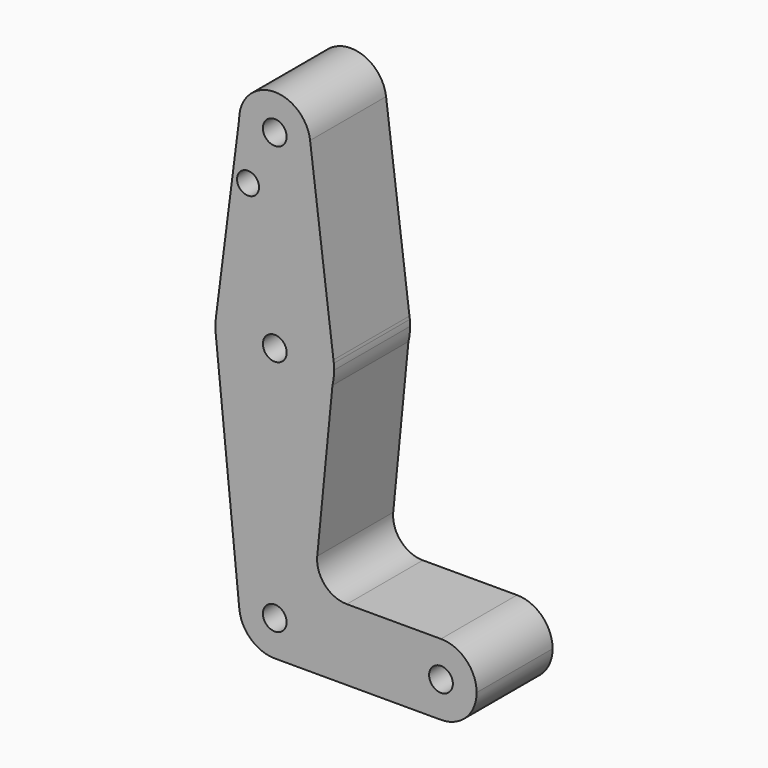
from build123d import *

# Parameters (mm, degrees)
F0_R     = 3.175
F0_R_2   = 2.938042
F1_DEPTH = 25.4


with BuildPart() as f1:
    # F0 (on Front) → F1 (new body)
    with BuildSketch(Plane.XZ):
        with BuildLine():
            ThreePointArc((0, -9.525), (6.735192, -6.735192), (9.525, 0))
            ThreePointArc((9.525, 0), (-0.476848, 9.513056), (-9.477255, -0.9525))
            ThreePointArc((-9.477255, -0.9525), (-6.389564, -7.063929), (0, -9.525))
        make_face()
        Circle(F0_R, mode=Mode.SUBTRACT)
        with BuildLine():
            ThreePointArc((-9.477255, -0.9525), (-0.476848, 9.513056), (9.525, 0))
            ThreePointArc((9.525, 0), (6.735192, -6.735192), (0, -9.525))
            Line((0, -9.525), (44.244344, -9.52278))
            ThreePointArc((44.244344, -9.52278), (34.925555, 0.102834), (44.45, 9.525))
            Line((44.45, 9.525), (19.271431, 9.525254))
            ThreePointArc((19.271431, 9.525254), (13.382074, 12.135023), (11.359216, 18.25086))
            Line((11.359216, 18.25086), (15.426409, 59.752799))
            ThreePointArc((15.426409, 59.752799), (-1.0955, 47.662844), (-15.795426, 61.9125))
            Line((-15.795426, 61.9125), (-9.477255, -0.9525))
        make_face()
        with BuildLine():
            ThreePointArc((-15.747457, 65.508289), (-15.873588, 63.711757), (-15.795426, 61.9125))
            ThreePointArc((-15.795426, 61.9125), (-1.0955, 47.662844), (15.426409, 59.752799))
            ThreePointArc((15.426409, 59.752799), (15.762453, 61.613022), (15.875, 63.5))
            ThreePointArc((15.875, 63.5), (15.854646, 64.303636), (15.793636, 65.105211))
            Line((15.793636, 65.105211), (15.698666, 65.859557))
            ThreePointArc((15.698666, 65.859557), (-0.17732, 79.37401), (-15.747457, 65.508289))
        make_face()
        with Locations((0, 63.5)):
            Circle(F0_R, mode=Mode.SUBTRACT)
        with BuildLine():
            ThreePointArc((44.45, 9.525), (34.925555, 0.102834), (44.244344, -9.52278))
            ThreePointArc((44.244344, -9.52278), (51.112085, -6.807514), (53.975, 0))
            ThreePointArc((53.975, 0), (51.185192, 6.735192), (44.45, 9.525))
        make_face()
        with Locations((44.45, 0)):
            Circle(F0_R, mode=Mode.SUBTRACT)
        with BuildLine():
            Line((-9.525, 114.3), (-15.747457, 65.508289))
            ThreePointArc((-15.747457, 65.508289), (-0.17732, 79.37401), (15.698666, 65.859557))
            Line((15.698666, 65.859557), (9.4504, 115.489771))
            ThreePointArc((9.4504, 115.489771), (9.506332, 114.896054), (9.525, 114.3))
            ThreePointArc((9.525, 114.3), (0, 104.775), (-9.525, 114.3))
        make_face()
        with Locations((-7.148621, 100.0252)):
            Circle(F0_R_2, mode=Mode.SUBTRACT)
        with BuildLine():
            ThreePointArc((15.793636, 65.105211), (15.750667, 65.482952), (15.698666, 65.859557))
            Line((15.698666, 65.859557), (15.793636, 65.105211))
        make_face()
        with BuildLine():
            ThreePointArc((9.4504, 115.489771), (-0.596054, 123.806332), (-9.525, 114.3))
            ThreePointArc((-9.525, 114.3), (0, 104.775), (9.525, 114.3))
            ThreePointArc((9.525, 114.3), (9.506332, 114.896054), (9.4504, 115.489771))
        make_face()
        with Locations((0, 114.3)):
            Circle(F0_R, mode=Mode.SUBTRACT)
    extrude(amount=F1_DEPTH)


solid = f1.part
